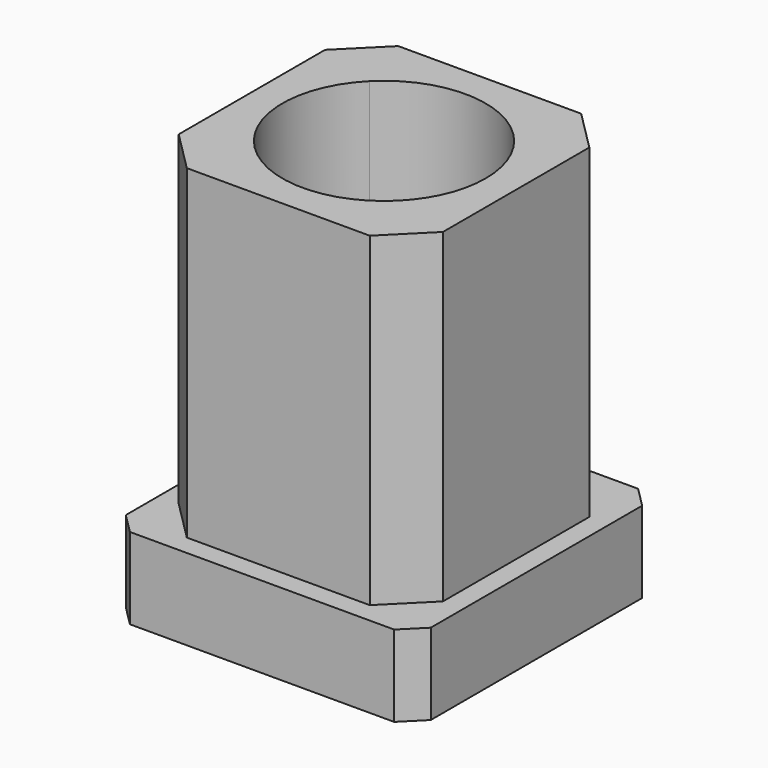
from build123d import *

# Parameters (mm, degrees)
F0_W     = 19.05
F0_H     = 19.05
F1_DEPTH = 5.08
F2_W     = 16.51
F2_H     = 16.51
F3_DEPTH = 20.32
F5_DEPTH = 25.4
F6_SIZE  = 2.54
F7_SIZE  = 1.27


with BuildPart() as f1:
    # F0 (on Top) → F1 (new body)
    with BuildSketch(Plane.XY):
        with Locations((9.525, 9.525)):
            Rectangle(F0_W, F0_H)
    extrude(amount=F1_DEPTH)

    # F2 (on face) → F3 (join)
    with BuildSketch(Plane.XY.offset(5.08)):
        with Locations((9.525, 9.525)):
            Rectangle(F2_W, F2_H)
    extrude(amount=F3_DEPTH)

    # F4 (on face) → F5 (cut)
    with BuildSketch(Plane.XY.offset(25.4)):
        with BuildLine():
            Line((5.0348719395, 5.0348719395), (9.525, 9.525))
            Line((9.525, 9.525), (5.0348719395, 14.0151280605))
            ThreePointArc((5.0348719395, 14.0151280605), (3.175, 9.525), (5.0348719395, 5.0348719395))
        make_face()
        with BuildLine():
            Line((5.0348719395, 14.0151280605), (9.525, 9.525))
            Line((9.525, 9.525), (14.0151280605, 14.0151280605))
            ThreePointArc((14.0151280605, 14.0151280605), (9.525, 15.875), (5.0348719395, 14.0151280605))
        make_face()
        with BuildLine():
            Line((9.525, 9.525), (14.0151280605, 5.0348719395))
            ThreePointArc((14.0151280605, 5.0348719395), (15.3916350314, 7.0949602045), (15.875, 9.525))
            ThreePointArc((15.875, 9.525), (15.3916350314, 11.9550397955), (14.0151280605, 14.0151280605))
            Line((14.0151280605, 14.0151280605), (9.525, 9.525))
        make_face()
        with BuildLine():
            ThreePointArc((5.0348719395, 5.0348719395), (9.525, 3.175), (14.0151280605, 5.0348719395))
            Line((14.0151280605, 5.0348719395), (9.525, 9.525))
            Line((9.525, 9.525), (5.0348719395, 5.0348719395))
        make_face()
    extrude(amount=-F5_DEPTH, mode=Mode.SUBTRACT)

    # F6
    f6_edges = [f1.edges().sort_by_distance(p)[0] for p in [
        (17.78, 17.78, 15.24),
        (1.27, 17.78, 15.24),
        (1.27, 1.27, 15.24),
        (17.78, 1.27, 15.24),
    ]]
    chamfer(f6_edges, length=F6_SIZE)

    # F7
    f7_edges = [f1.edges().sort_by_distance(p)[0] for p in [
        (0, 0, 2.54),
        (0, 19.05, 2.54),
        (19.05, 19.05, 2.54),
        (19.05, 0, 2.54),
    ]]
    chamfer(f7_edges, length=F7_SIZE)


solid = f1.part
